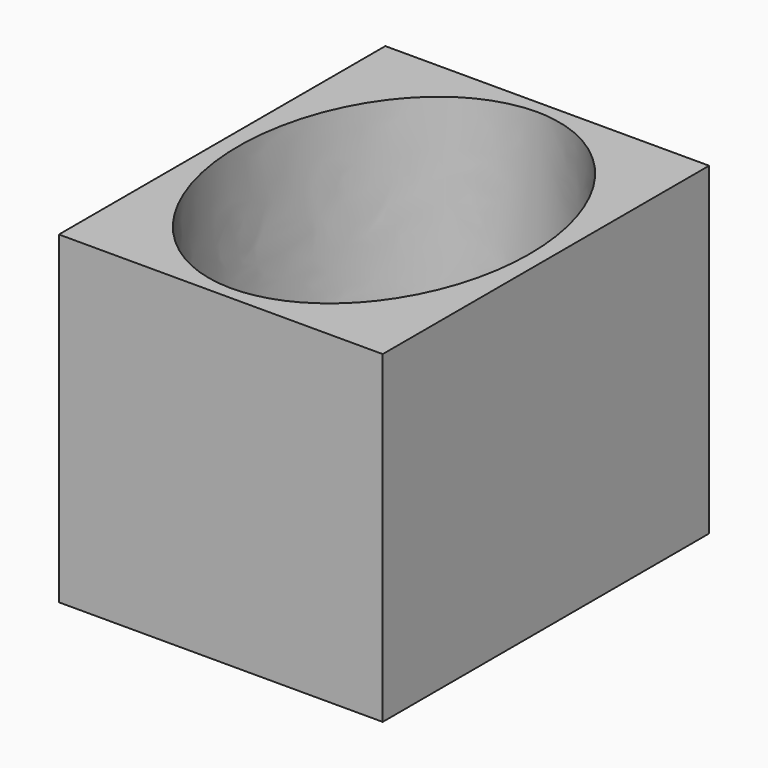
from build123d import *

# Parameters (mm, degrees)
F0_W     = 50
F0_H     = 63
F1_DEPTH = 50
F3_DEPTH = 45


with BuildPart() as f1:
    # F0 (on Top) → F1 (new body)
    with BuildSketch(Plane.XY):
        Rectangle(F0_W, F0_H)
    extrude(amount=F1_DEPTH)

    # F2 (on face) → F3 (cut)
    with BuildSketch(Plane.XY.offset(50)):
        with BuildLine():
            add(Edge.make_bspline(
                [(0, 29.5), (-38.971143, 29.5), (-19.485572, -14.75), (0, -59), (19.485572, -14.75), (38.971143, 29.5), (0, 29.5)],
                knots=[0, 0, 0, 2.094395, 2.094395, 4.18879, 4.18879, 6.283185, 6.283185, 6.283185], degree=2, weights=[1, 0.5, 1, 0.5, 1, 0.5, 1]))
        make_face()
    extrude(amount=-F3_DEPTH, mode=Mode.SUBTRACT)


solid = f1.part
